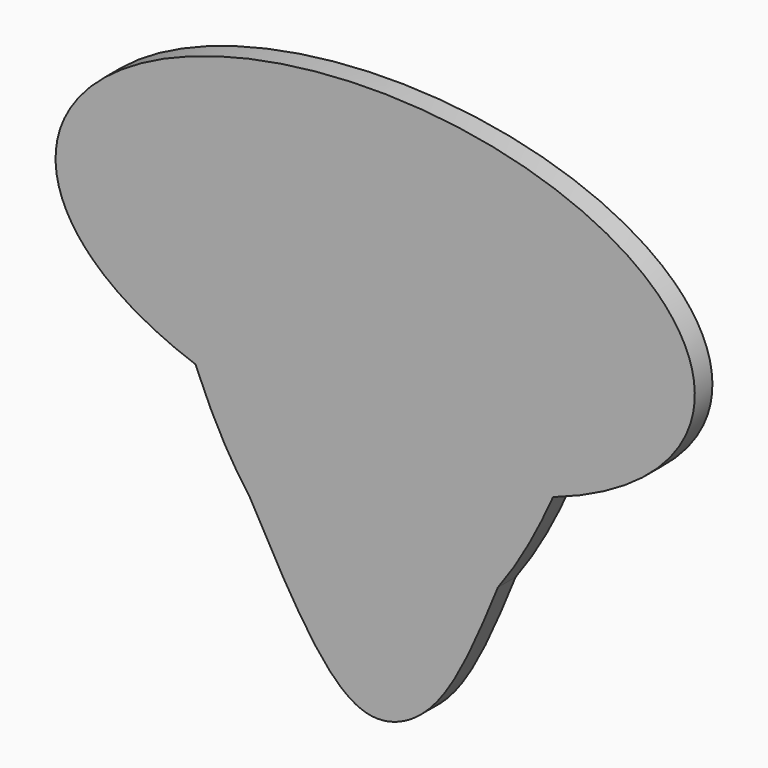
from build123d import *

# Parameters (mm, degrees)
F1_DEPTH = 1.5


with BuildPart() as f1:
    # F0 (on Front) → F1 (new body)
    with BuildSketch(Plane.XZ):
        with BuildLine():
            add(Edge.make_bspline(
                [(12.1109424934, -9.2775346471), (71.2018975306, 11.0384356592), (0.0766256151, 11.1669742698), (-71.0486463003, 11.2955128805), (-12.2379618413, -9.2335309582)],
                knots=[2.1610563912, 2.1610563912, 2.1610563912, 4.7088675244, 4.7088675244, 7.2566786576, 7.2566786576, 7.2566786576], degree=2, weights=[1, 0.2925484128, 1, 0.2925484128, 1]))
            add(Edge.make_bspline(
                [(-12.2379618413, -9.2335309582), (-11.2544900209, -11.6190973629), (-10.1101488972, -13.8949000895), (-8.5846669972, -15.9102473408)],
                knots=[0.1106602531, 0.1106602531, 0.1106602531, 0.1106602531, 0.2638905591, 0.2638905591, 0.2638905591, 0.2638905591], degree=3))
            add(Edge.make_bspline(
                [(-8.5846669972, -15.9102473408), (-6.2772533221, -18.9586216334), (0.0514991919, -23.8403624271), (6.0569458892, -18.9784215411), (8.3557413891, -15.9102473408)],
                knots=[0.2638905591, 0.2638905591, 0.2638905591, 0.2638905591, 0.4956636818, 0.7252427359, 0.7252427359, 0.7252427359, 0.7252427359], degree=3))
            add(Edge.make_bspline(
                [(8.3557413891, -15.9102473408), (9.8449537389, -13.9226138559), (11.0447385381, -11.6627103247), (12.1109424934, -9.2775346471)],
                knots=[0.7252427359, 0.7252427359, 0.7252427359, 0.7252427359, 0.8739693028, 0.8739693028, 0.8739693028, 0.8739693028], degree=3))
        make_face()
        with BuildLine():
            add(Edge.make_bspline(
                [(-8.5846669972, -15.9102473408), (-6.2772533221, -18.9586216334), (0.0514991919, -23.8403624271), (6.0569458892, -18.9784215411), (8.3557413891, -15.9102473408)],
                knots=[0.2638905591, 0.2638905591, 0.2638905591, 0.2638905591, 0.4956636818, 0.7252427359, 0.7252427359, 0.7252427359, 0.7252427359], degree=3))
            add(Edge.make_bspline(
                [(-8.5846669972, -15.9102473408), (-6.8125780688, -19.1544733405), (-3.9313704577, -24.4292022169), (-0.0891128723, -27.1396602084), (4.6837521722, -24.88629442), (6.9718969211, -19.2930059388), (8.3557413891, -15.9102473408)],
                knots=[0, 0, 0, 0, 0.3060478111, 0.497597648, 0.6961526512, 1, 1, 1, 1], degree=3))
        make_face()
    extrude(amount=F1_DEPTH)


solid = f1.part
